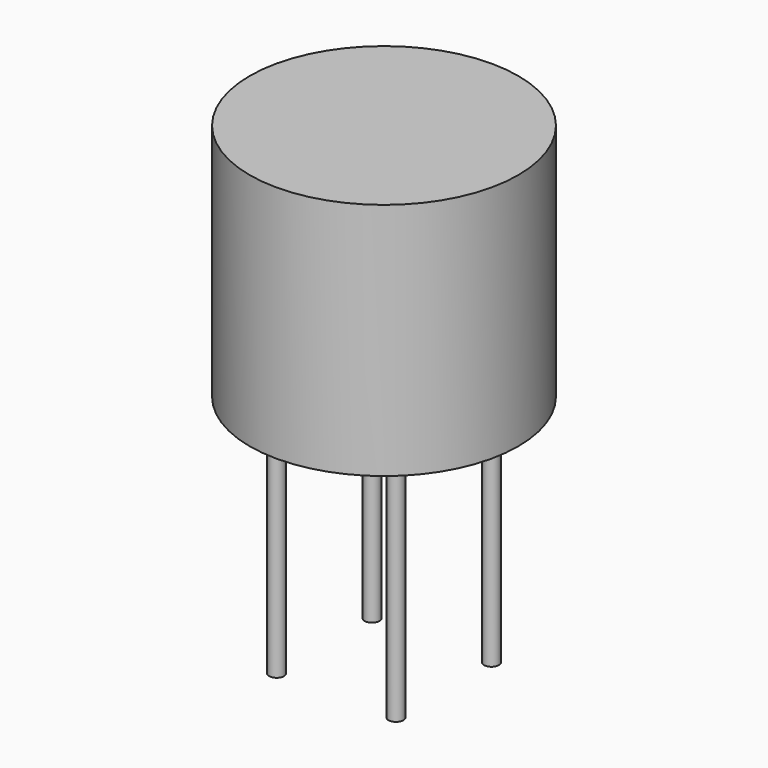
from build123d import *

# Parameters (mm, degrees)
CYLINDER006_R     = 0.25
CYLINDER006_DEPTH = 8
CYLINDER007_R     = 0.25
CYLINDER007_DEPTH = 8
CYLINDER008_R     = 0.25
CYLINDER008_DEPTH = 8
CYLINDER009_R     = 0.25
CYLINDER009_DEPTH = 8
CYLINDER005_R     = 4.5
CYLINDER005_DEPTH = 8


with BuildPart() as cylinder006:
    # Cylinder006 → Cylinder006 (new body)
    with BuildSketch(Plane(origin=(6, 15, 0), x_dir=(1, 0, 0), z_dir=(0, 0, 1))):
        Circle(CYLINDER006_R)
    extrude(amount=CYLINDER006_DEPTH)


with BuildPart() as cylinder007:
    # Cylinder007 → Cylinder007 (new body)
    with BuildSketch(Plane(origin=(6, 19, 0), x_dir=(1, 0, 0), z_dir=(0, 0, 1))):
        Circle(CYLINDER007_R)
    extrude(amount=CYLINDER007_DEPTH)


with BuildPart() as cylinder008:
    # Cylinder008 → Cylinder008 (new body)
    with BuildSketch(Plane(origin=(10, 19, 0), x_dir=(1, 0, 0), z_dir=(0, 0, 1))):
        Circle(CYLINDER008_R)
    extrude(amount=CYLINDER008_DEPTH)


with BuildPart() as cylinder009:
    # Cylinder009 → Cylinder009 (new body)
    with BuildSketch(Plane(origin=(10, 15, 0), x_dir=(1, 0, 0), z_dir=(0, 0, 1))):
        Circle(CYLINDER009_R)
    extrude(amount=CYLINDER009_DEPTH)


with BuildPart() as capacitor:
    # Cylinder005 → Cylinder005 (new body)
    with BuildSketch(Plane(origin=(8, 17, 8), x_dir=(1, 0, 0), z_dir=(0, 0, 1))):
        Circle(CYLINDER005_R)
    extrude(amount=CYLINDER005_DEPTH)

    # Fusion001: union Cylinder006, Cylinder007, Cylinder008, Cylinder009
    add(cylinder006.part)
    add(cylinder007.part)
    add(cylinder008.part)
    add(cylinder009.part)


solid = capacitor.part
